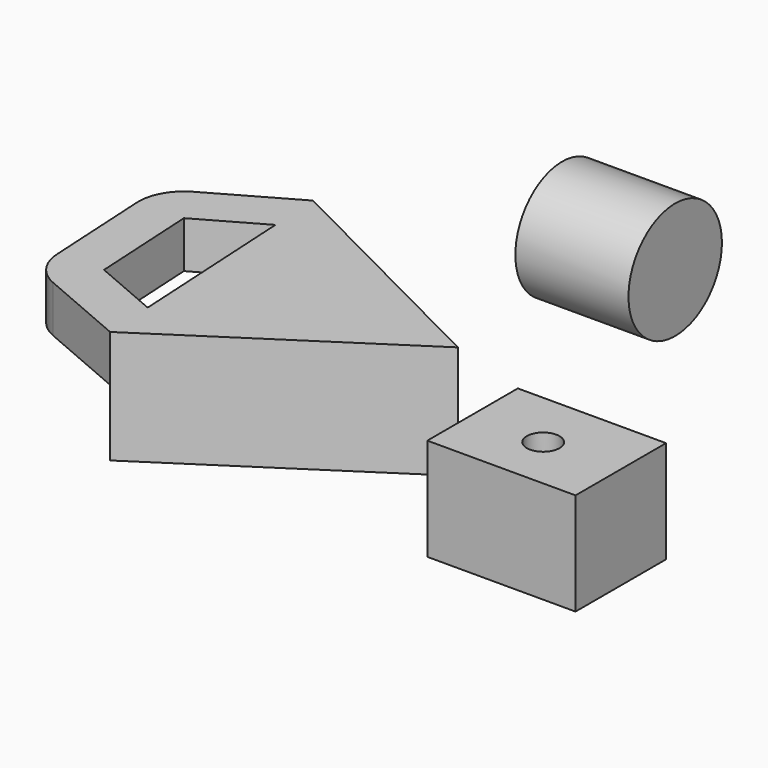
from build123d import *

# Parameters (mm, degrees)
F0_W     = 32.7475219965
F0_H     = 22.611387074
F1_DEPTH = 25
F2_R     = 12.9037605073
F3_DEPTH = 25
F5_DEPTH = 25
F6_R     = 3.610526351
F7_DEPTH = 5
F9_DEPTH = 10.3


with BuildPart() as f1:
    # F0 (on Front) → F1 (new body)
    with BuildSketch(Plane.XZ):
        with Locations((16.3737609982, 11.305693537)):
            Rectangle(F0_W, F0_H)
    extrude(amount=F1_DEPTH)

    # F6 (on face) → F7 (cut)
    with BuildSketch(Plane.XY.offset(22.611387074)):
        with Locations((15.9532800317, -12.9522047937)):
            Circle(F6_R)
    extrude(amount=-F7_DEPTH, mode=Mode.SUBTRACT)


with BuildPart() as f3:
    # F2 (on Right) → F3 (new body)
    with BuildSketch(Plane.YZ):
        with Locations((12.2153488919, 48.8613881171)):
            Circle(F2_R)
    extrude(amount=F3_DEPTH)


with BuildPart() as f5:
    # F4 (on Top) → F5 (new body)
    with BuildSketch(Plane.XY):
        Polygon((-65.2459419214, -31.0648763786), (-14.7739567913, 1.9248621772), (-68.5799010098, 29.1400142014), align=None)
    extrude(amount=F5_DEPTH)

    # F8 (on face) → F9 (join)
    with BuildSketch(Plane.XY.offset(25)):
        with BuildLine():
            Line((-67.962472612, 17.9904445321), (-68.5799010098, 29.1400142014))
            Line((-68.5799010098, 29.1400142014), (-86.8097636916, 18.786591731))
            ThreePointArc((-86.8097636916, 18.786591731), (-90.6495799627, 14.8808293472), (-91.8559779381, 9.5381921034))
            Line((-91.8559779381, 9.5381921034), (-90.5440368998, -14.1529404398))
            ThreePointArc((-90.5440368998, -14.1529404398), (-88.7551072146, -19.3297057789), (-84.5075139047, -22.787612641))
            Line((-84.5075139047, -22.787612641), (-65.2459419214, -31.0648763786))
            Line((-65.2459419214, -31.0648763786), (-65.8633703192, -19.9153067092))
            Line((-65.8633703192, -19.9153067092), (-80.5593347196, -13.6000187709))
            Line((-80.5593347196, -13.6000187709), (-81.8712757579, 10.0911137724))
            Line((-81.8712757579, 10.0911137724), (-67.962472612, 17.9904445321))
        make_face()
    extrude(amount=-F9_DEPTH)


solid = Compound([f1.part, f3.part, f5.part])
